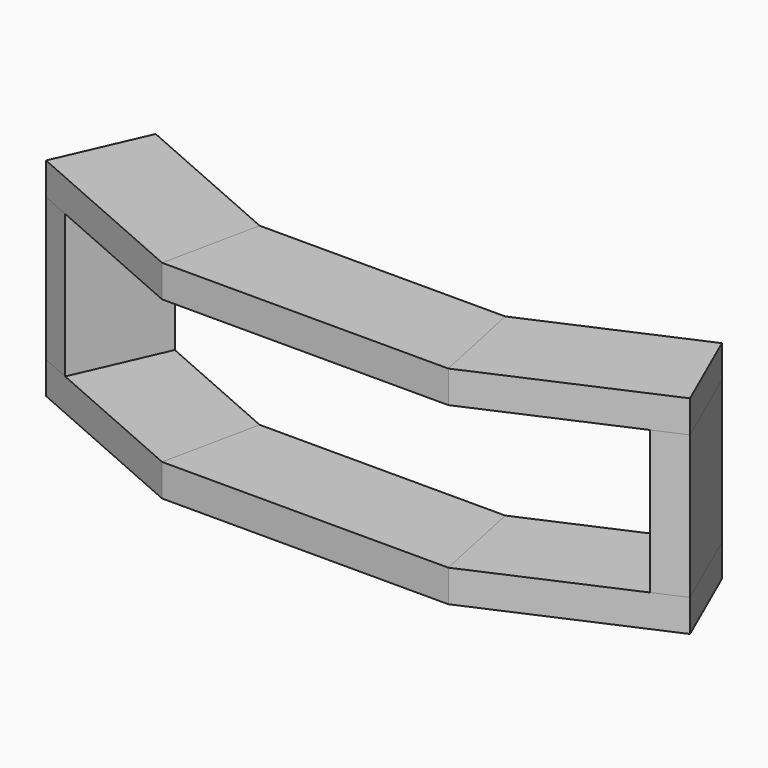
from build123d import *

# Parameters (mm, degrees)
F1_DEPTH = 45
F2_DEPTH = 45
F3_DEPTH = 45
F5_DEPTH = 200


with BuildPart() as f1:
    # F0 (on Top) → F1 (new body)
    with BuildSketch(Plane.XY):
        Polygon((-450, 109.8048263566), (-200, 0), (-171.6592865378, 135), (-395.7111434237, 233.4079009609), align=None)
    extrude(amount=F1_DEPTH)


with BuildPart() as f2:
    # F0 (on Top) → F2 (new body)
    with BuildSketch(Plane.XY):
        Polygon((-171.6592865378, 135), (-200, 0), (0, 0), (200, 0), (171.6592865378, 135), (0, 135), align=None)
    extrude(amount=F2_DEPTH)


with BuildPart() as f3:
    # F0 (on Top) → F3 (new body)
    with BuildSketch(Plane.XY):
        Polygon((171.6592865378, 135), (200, 0), (450, 109.8048263566), (395.7111434237, 233.4079009609), align=None)
    extrude(amount=F3_DEPTH)


with BuildPart() as f5:
    # F4 (on face) → F5 (new body)
    with BuildSketch(Plane.XY):
        Polygon((408.7989751319, 91.7085408312), (450, 109.8048263566), (395.7111434237, 233.4079009609), (354.5101185556, 215.3116154355), align=None)
    extrude(amount=-F5_DEPTH)


with BuildPart() as f6_1:
    # F6: instance of F5
    add(f5.part.mirror(Plane.YZ))


with BuildPart() as f7_1:
    # F7: copy of F1
    add(f1.part.moved(Location((0, 0, -245))))


with BuildPart() as f7_2:
    # F7: copy of F2
    add(f2.part.moved(Location((0, 0, -245))))


with BuildPart() as f7_3:
    # F7: copy of F3
    add(f3.part.moved(Location((0, 0, -245))))


solid = Compound([f1.part, f2.part, f3.part, f5.part, f6_1.part, f7_1.part, f7_2.part, f7_3.part])
